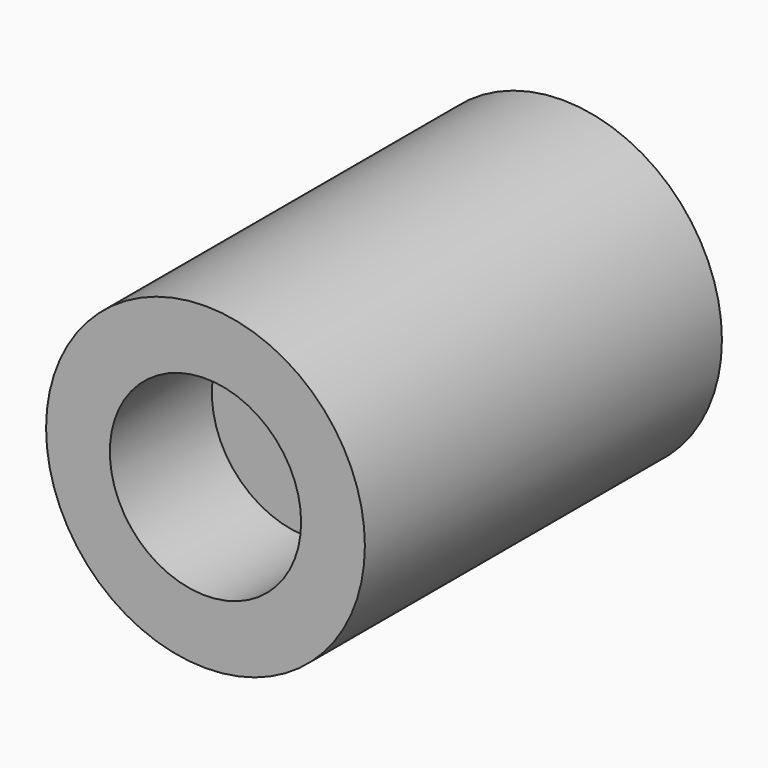
from build123d import *

# Parameters (mm, degrees)
F0_R     = 50
F1_DEPTH = 140
F2_R     = 30
F3_DEPTH = 40
F4_R     = 10
F5_DEPTH = 80


with BuildPart() as f1:
    # F0 (on Front) → F1 (new body)
    with BuildSketch(Plane.XZ):
        Circle(F0_R)
    extrude(amount=F1_DEPTH)

    # F2 (on face) → F3 (cut)
    with BuildSketch(Plane.XZ.offset(140)):
        Circle(F2_R)
    extrude(amount=-F3_DEPTH, mode=Mode.SUBTRACT)

    # F4 (on face) → F5 (cut)
    with BuildSketch(Plane.XZ.offset(100)):
        with Locations((0, 3.197924)):
            Circle(F4_R)
    extrude(amount=-F5_DEPTH, mode=Mode.SUBTRACT)


solid = f1.part
